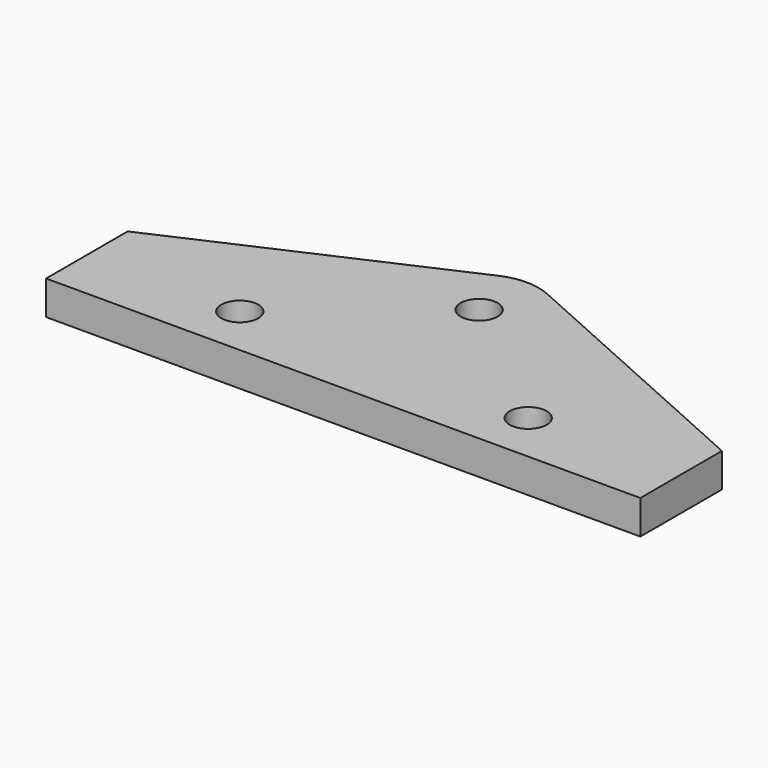
from build123d import *

# Parameters (mm, degrees)
F0_R     = 1.7272
F1_DEPTH = 3.175


with BuildPart() as f1:
    # F0 (on Top) → F1 (new body)
    with BuildSketch(Plane.XY):
        with BuildLine():
            Line((0, 0), (0, -9.525))
            Line((0, -9.525), (55.515764, -9.525))
            Line((55.515764, -9.525), (55.515764, 0))
            Line((55.515764, 0), (30.030001, 11.420443))
            ThreePointArc((30.030001, 11.420443), (27.757882, 11.90625), (25.485763, 11.420443))
            Line((25.485763, 11.420443), (0, 0))
        make_face()
        with Locations((14.2875, -4.7625)):
            Circle(F0_R, mode=Mode.SUBTRACT)
        with Locations((41.228264, -4.7625)):
            Circle(F0_R, mode=Mode.SUBTRACT)
        with Locations((27.757882, 6.35)):
            Circle(F0_R, mode=Mode.SUBTRACT)
    extrude(amount=F1_DEPTH)


solid = f1.part
